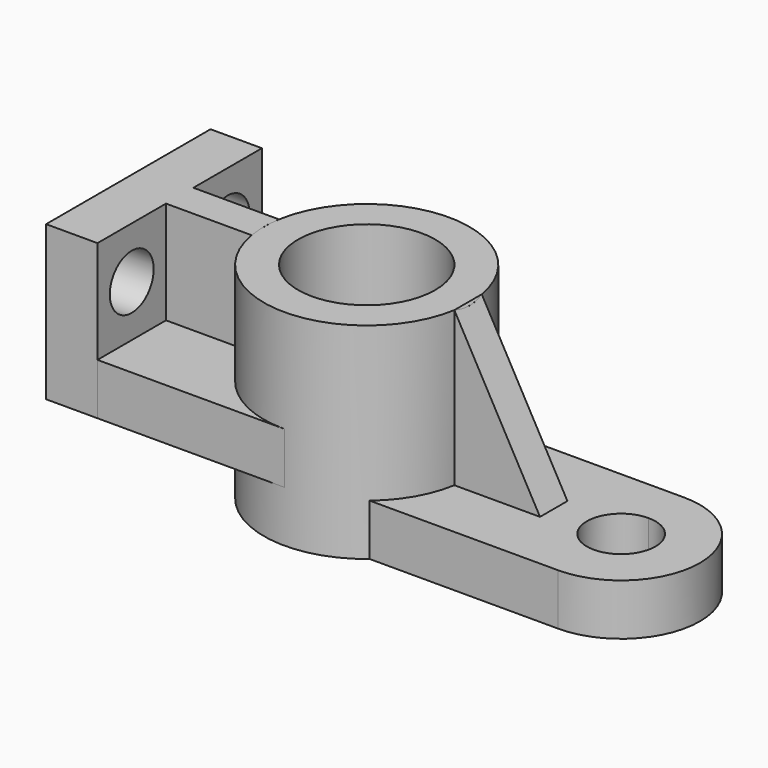
from build123d import *

# Parameters (mm, degrees)
F0_R      = 20
F1_DEPTH  = 60
F3_DEPTH  = 45
F4_DEPTH  = 45
F6_DEPTH  = 30
F7_DEPTH  = 30
F8_R      = 8
F9_DEPTH  = 15.001
F11_DEPTH = 15
F12_DEPTH = 60
F14_DEPTH = 10


with BuildPart() as f1:
    # F0 (on Top) → F1 (new body)
    with BuildSketch(Plane.XY):
        with BuildLine():
            ThreePointArc((0, -30), (21.2132034356, -21.2132034356), (30, 0))
            ThreePointArc((30, 0), (21.2132034356, 21.2132034356), (0, 30))
            ThreePointArc((0, 30), (-19.364916731, 22.9128784748), (-29.5803989155, 5))
            ThreePointArc((-29.5803989155, 5), (-30, 0), (-29.5803989155, -5))
            ThreePointArc((-29.5803989155, -5), (-19.364916731, -22.9128784748), (0, -30))
        make_face()
        Circle(F0_R, mode=Mode.SUBTRACT)
    extrude(amount=-F1_DEPTH)

    # F10 (on face) → F11 (join)
    with BuildSketch(Plane(origin=(0, 0, -60), x_dir=(1, 0, 0), z_dir=(0, 0, -1))):
        with BuildLine():
            ThreePointArc((19.2613602843, 23), (26.0265126445, 14.9204771897), (29.5803989155, 5))
            Line((29.5803989155, 5), (54.5803989155, 5))
            Line((54.5803989155, 5), (54.5803989155, -5))
            Line((54.5803989155, -5), (29.5803989155, -5))
            ThreePointArc((29.5803989155, -5), (26.0265126445, -14.9204771897), (19.2613602843, -23))
            Line((19.2613602843, -23), (74.2613602843, -23))
            Line((74.2613602843, -23), (74.2613602843, -10))
            ThreePointArc((74.2613602843, -10), (64.2613602843, 0), (74.2613602843, 10))
            Line((74.2613602843, 10), (74.2613602843, 23))
            Line((74.2613602843, 23), (19.2613602843, 23))
        make_face()
        with BuildLine():
            ThreePointArc((74.2613602843, -23), (97.2613602843, 0), (74.2613602843, 23))
            Line((74.2613602843, 23), (74.2613602843, 10))
            ThreePointArc((74.2613602843, 10), (81.3324280961, 7.0710678119), (84.2613602843, 0))
            ThreePointArc((84.2613602843, 0), (81.3324280961, -7.0710678119), (74.2613602843, -10))
            Line((74.2613602843, -10), (74.2613602843, -23))
        make_face()
    extrude(amount=-F11_DEPTH)


with BuildPart() as f3:
    # F2 (on face) → F3 (new body)
    with BuildSketch(Plane.XY):
        with BuildLine():
            ThreePointArc((-29.5803989155, -5), (-30, 0), (-29.5803989155, 5))
            Line((-29.5803989155, 5), (-54.5803989155, 5))
            Line((-54.5803989155, 5), (-54.5803989155, 30))
            Line((-54.5803989155, 30), (-69.5803989155, 30))
            Line((-69.5803989155, 30), (-69.5803989155, -30))
            Line((-69.5803989155, -30), (-54.5803989155, -30))
            Line((-54.5803989155, -30), (-54.5803989155, -5))
            Line((-54.5803989155, -5), (-29.5803989155, -5))
        make_face()
    extrude(amount=-F3_DEPTH)

    # F8 (on face) → F9 (cut, through all)
    with BuildSketch(Plane.YZ.offset(-54.5803989155)):
        with Locations((-17.5, -15.0141306221)):
            Circle(F8_R)
        with Locations((17.5, -15.0661990047)):
            Circle(F8_R)
    extrude(amount=-F9_DEPTH, mode=Mode.SUBTRACT)


with BuildPart() as f4:
    # F0 (on Top) → F4 (new body)
    with BuildSketch(Plane.XY):
        with BuildLine():
            Line((-54.5803989155, -30), (0, -30))
            ThreePointArc((0, -30), (-19.364916731, -22.9128784748), (-29.5803989155, -5))
            Line((-29.5803989155, -5), (-54.5803989155, -5))
            Line((-54.5803989155, -5), (-54.5803989155, -30))
        make_face()
    extrude(amount=-F4_DEPTH)

    # F5 (on face) → F6 (cut)
    with BuildSketch(Plane.XY):
        with BuildLine():
            Line((-54.5803989155, -30), (0, -30))
            ThreePointArc((0, -30), (-19.364916731, -22.9128784748), (-29.5803989155, -5))
            Line((-29.5803989155, -5), (-54.5803989155, -5))
            Line((-54.5803989155, -5), (-54.5803989155, -30))
        make_face()
    extrude(amount=-F6_DEPTH, mode=Mode.SUBTRACT)


with BuildPart() as f4b:
    # F0 (on Top) → F4, piece 2 (new body)
    with BuildSketch(Plane.XY):
        with BuildLine():
            ThreePointArc((-29.5803989155, 5), (-19.364916731, 22.9128784748), (0, 30))
            Line((0, 30), (-54.5803989155, 30))
            Line((-54.5803989155, 30), (-54.5803989155, 5))
            Line((-54.5803989155, 5), (-29.5803989155, 5))
        make_face()
    extrude(amount=-F4_DEPTH)

    # F7 (cut): a face of the model
    f7_faces = [f4b.faces().sort_by_distance(p)[0] for p in [
        (-37.7554435804, 18.8998422271, 0),
    ]]
    extrude(f7_faces, amount=-F7_DEPTH, mode=Mode.SUBTRACT)


with BuildPart() as f12:
    # F10 (on face) → F12 (new body)
    with BuildSketch(Plane(origin=(0, 0, -60), x_dir=(1, 0, 0), z_dir=(0, 0, -1))):
        with BuildLine():
            Line((54.5803989155, 5), (29.5803989155, 5))
            ThreePointArc((29.5803989155, 5), (29.8949156836, 2.5087878084), (30, 0))
            ThreePointArc((30, 0), (29.8949156836, -2.5087878084), (29.5803989155, -5))
            Line((29.5803989155, -5), (54.5803989155, -5))
            Line((54.5803989155, -5), (54.5803989155, 5))
        make_face()
    extrude(amount=-F12_DEPTH)


with BuildPart() as f14_tool:
    # F13 (on face) → F14 (new body)
    with BuildSketch(Plane.XZ.offset(5)):
        Polygon((54.5803989155, 0), (29.5803989155, 0), (54.5803989155, -45.0015179813), align=None)
    extrude(amount=-F14_DEPTH)


with BuildPart() as f1_1:
    add(f1.part)

    # F14: cut by f14_tool
    add(f14_tool.part, mode=Mode.SUBTRACT)


with BuildPart() as f12_1:
    add(f12.part)

    # F14: cut by f14_tool
    add(f14_tool.part, mode=Mode.SUBTRACT)


solid = Compound([f3.part, f4.part, f4b.part, f1_1.part, f12_1.part])
